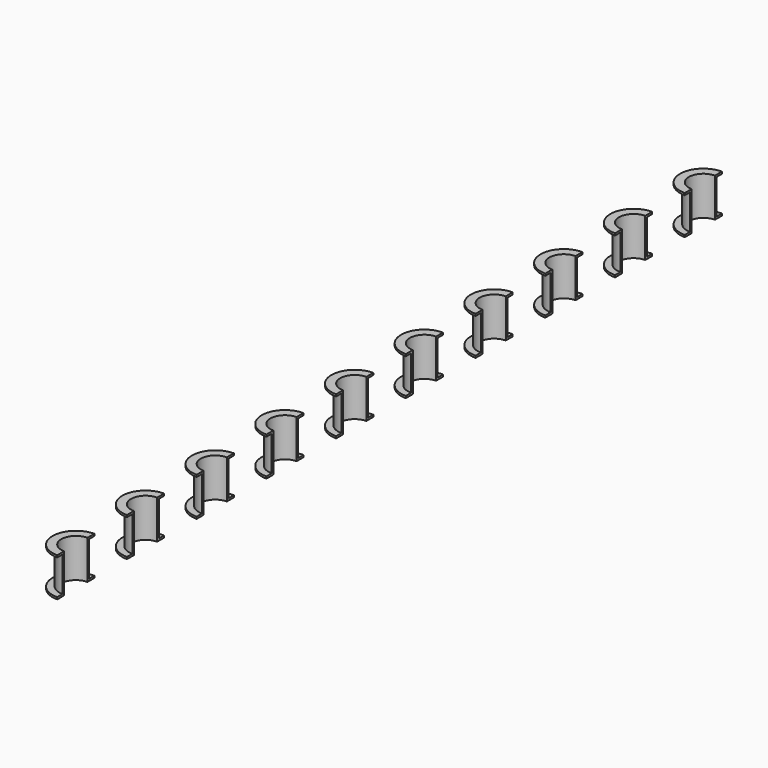
from build123d import *

# Parameters (mm, degrees)
PAD005_DEPTH  = 0.0348
PAD006_DEPTH  = 0.6348
PAD007_DEPTH  = 0.0348
ARRAY_Y_COUNT = 10
ARRAY_Y_PITCH = 1.5


with BuildPart() as array:
    # Sketch008 → Pad005 (new body)
    with BuildSketch(Plane.XY):
        with BuildLine():
            ThreePointArc((0, -0.25), (0.25, 0), (0, 0.25))
            Line((0, 0.4), (0, 0.25))
            ThreePointArc((0, -0.4), (0.4, 0), (0, 0.4))
            Line((0, -0.25), (0, -0.4))
        make_face()
    extrude(amount=PAD005_DEPTH)

    # Sketch009 → Pad006 (join)
    with BuildSketch(Plane.XY):
        with BuildLine():
            ThreePointArc((0, -0.25), (0.25, 0), (0, 0.25))
            Line((0, 0.2848), (0, 0.25))
            ThreePointArc((0, -0.2848), (0.2848, 0), (0, 0.2848))
            Line((0, -0.25), (0, -0.2848))
        make_face()
    extrude(amount=PAD006_DEPTH)

    # Sketch010 → Pad007 (join)
    with BuildSketch(Plane.XY.offset(0.6348)):
        with BuildLine():
            ThreePointArc((0, -0.25), (0.25, 0), (0, 0.25))
            Line((0, 0.4), (0, 0.25))
            ThreePointArc((0, -0.4), (0.4, 0), (0, 0.4))
            Line((0, -0.25), (0, -0.4))
        make_face()
    extrude(amount=PAD007_DEPTH)

    # Array Y: Array ×10


with BuildPart() as array_1:
    add(array.part)
    with Locations(*[(0, -i * ARRAY_Y_PITCH, 0) for i in range(1, ARRAY_Y_COUNT)]):
        add(array.part)


with BuildPart() as array_2:
    # Array placement: moved
    add(array_1.part.moved(Location((-8, 6.75, 0))))


with BuildPart() as part_mirroring:
    # Part__Mirroring: instance of Array
    add(array_2.part.mirror(Plane(origin=(0, 0, 0), x_dir=(0, -1, 0), z_dir=(1, 0, 0))))


solid = part_mirroring.part
